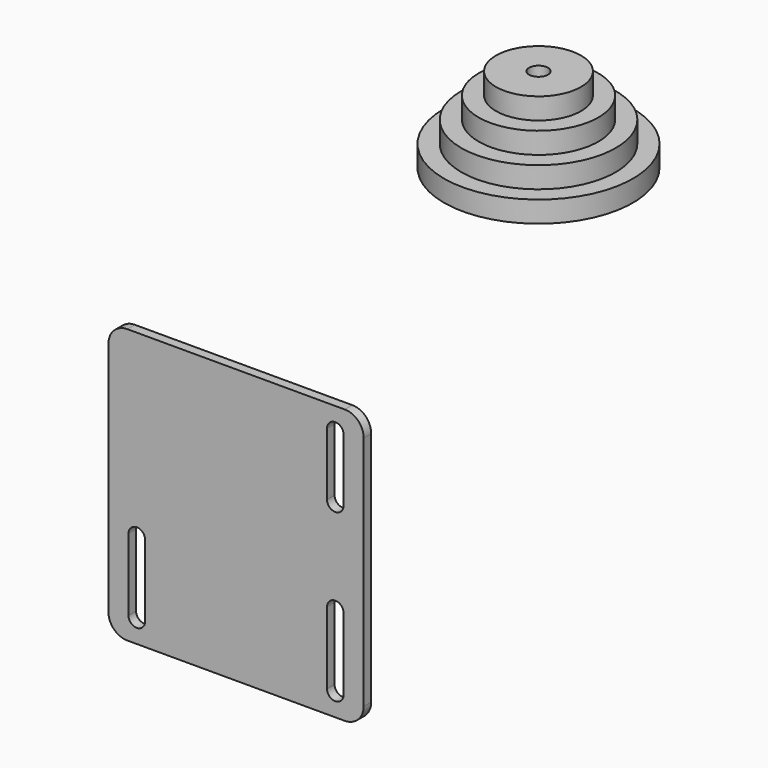
from build123d import *

# Parameters (mm, degrees)
F2_DEPTH = 6.35


with BuildPart() as f2:
    # F1 (on Front) → F2 (new body)
    with BuildSketch(Plane.XZ):
        with BuildLine():
            ThreePointArc((72.23125, 76.99375), (66.675, 82.55), (61.11875, 76.99375))
            Line((61.11875, 76.99375), (61.11875, 34.925))
            ThreePointArc((61.11875, 34.925), (66.675, 29.36875), (72.23125, 34.925))
            Line((72.23125, 34.925), (72.23125, 76.99375))
        make_face()
        with BuildLine():
            ThreePointArc((72.23125, -28.575), (66.675, -23.01875), (61.11875, -28.575))
            Line((61.11875, -28.575), (61.11875, -76.99375))
            ThreePointArc((61.11875, -76.99375), (66.675, -82.55), (72.23125, -76.99375))
            Line((72.23125, -76.99375), (72.23125, -28.575))
        make_face()
        with BuildLine():
            ThreePointArc((-72.23125, -76.99375), (-66.675, -82.55), (-61.11875, -76.99375))
            Line((-61.11875, -76.99375), (-61.11875, -28.575))
            ThreePointArc((-61.11875, -28.575), (-66.675, -23.01875), (-72.23125, -28.575))
            Line((-72.23125, -28.575), (-72.23125, -76.99375))
        make_face()
        with BuildLine():
            ThreePointArc((85.725, 79.375), (82.005256, 88.355256), (73.025, 92.075))
            Line((73.025, 92.075), (-73.025, 92.075))
            ThreePointArc((-73.025, 92.075), (-82.005256, 88.355256), (-85.725, 79.375))
            Line((-85.725, 79.375), (-85.725, -79.375))
            ThreePointArc((-85.725, -79.375), (-82.005256, -88.355256), (-73.025, -92.075))
            Line((-73.025, -92.075), (73.025, -92.075))
            ThreePointArc((73.025, -92.075), (82.005256, -88.355256), (85.725, -79.375))
            Line((85.725, -79.375), (85.725, 79.375))
        make_face()
        with BuildLine():
            Line((-61.11875, -28.575), (-61.11875, -76.99375))
            ThreePointArc((-61.11875, -76.99375), (-66.675, -82.55), (-72.23125, -76.99375))
            Line((-72.23125, -76.99375), (-72.23125, -28.575))
            ThreePointArc((-72.23125, -28.575), (-66.675, -23.01875), (-61.11875, -28.575))
        make_face(mode=Mode.SUBTRACT)
        with BuildLine():
            Line((61.11875, -76.99375), (61.11875, -28.575))
            ThreePointArc((61.11875, -28.575), (66.675, -23.01875), (72.23125, -28.575))
            Line((72.23125, -28.575), (72.23125, -76.99375))
            ThreePointArc((72.23125, -76.99375), (66.675, -82.55), (61.11875, -76.99375))
        make_face(mode=Mode.SUBTRACT)
        with BuildLine():
            Line((61.11875, 34.925), (61.11875, 76.99375))
            ThreePointArc((61.11875, 76.99375), (66.675, 82.55), (72.23125, 76.99375))
            Line((72.23125, 76.99375), (72.23125, 34.925))
            ThreePointArc((72.23125, 34.925), (66.675, 29.36875), (61.11875, 34.925))
        make_face(mode=Mode.SUBTRACT)
    extrude(amount=-F2_DEPTH)


with BuildPart() as f4:
    # F3 (on offset) → F4 (revolve)
    with BuildSketch(Plane.XZ.offset(-254)):
        Polygon((-63.5, 107.95), (-6.35, 107.95), (-6.35, 165.1), (-28.575, 165.1), (-28.575, 150.8125), (-40.216667, 150.8125), (-40.216667, 136.525), (-51.858333, 136.525), (-51.858333, 122.2375), (-63.5, 122.2375), align=None)
    revolve(axis=Axis((0, 254, 72.207878), (0, 0, 1)))


solid = Compound([f2.part, f4.part])
